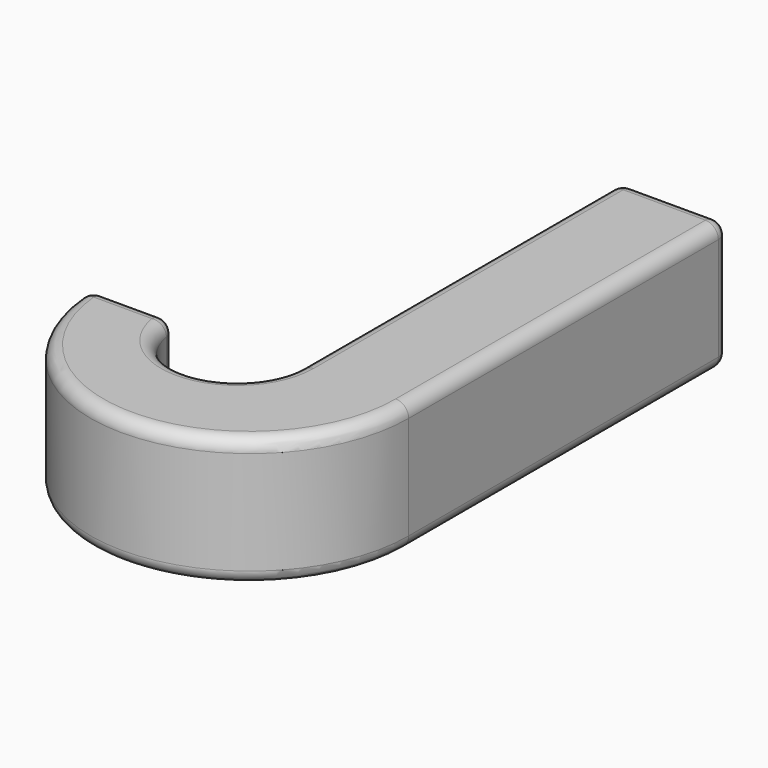
from build123d import *

# Parameters (mm, degrees)
F1_DEPTH = 25.4
F2_R     = 2.54


with BuildPart() as f1:
    # F0 (on Top) → F1 (new body)
    with BuildSketch(Plane.XY):
        with BuildLine():
            Line((-79.014186, 78.602763), (-100.253638, 78.602763))
            Line((-100.253638, 78.602763), (-100.253638, 0))
            ThreePointArc((-100.253638, 0), (-112.683548, -12.42991), (-125.113457, 0))
            Line((-125.113457, 0), (-141.525768, 0))
            ThreePointArc((-141.525768, 0), (-110.269977, -31.255791), (-79.014186, 0))
            Line((-79.014186, 0), (-79.014186, 78.602763))
        make_face()
    extrude(amount=F1_DEPTH)

    # F2
    f2_edges = [f1.edges().sort_by_distance(p)[0] for p in [
        (-79.014186, 39.301381, 25.4),
        (-89.633912, 78.602763, 25.4),
        (-100.253638, 39.301381, 25.4),
        (-112.683548, -12.42991, 25.4),
        (-133.319613, 0, 25.4),
        (-110.269977, -31.255791, 25.4),
        (-79.014186, 39.301381, 0),
        (-89.633912, 78.602763, 0),
        (-100.253638, 39.301381, 0),
        (-112.683548, -12.42991, 0),
        (-133.319613, 0, 0),
        (-110.269977, -31.255791, 0),
        (-79.014186, 78.602763, 12.7),
        (-100.253638, 78.602763, 12.7),
        (-125.113457, 0, 12.7),
        (-141.525768, 0, 12.7),
    ]]
    fillet(f2_edges, radius=F2_R)


solid = f1.part
